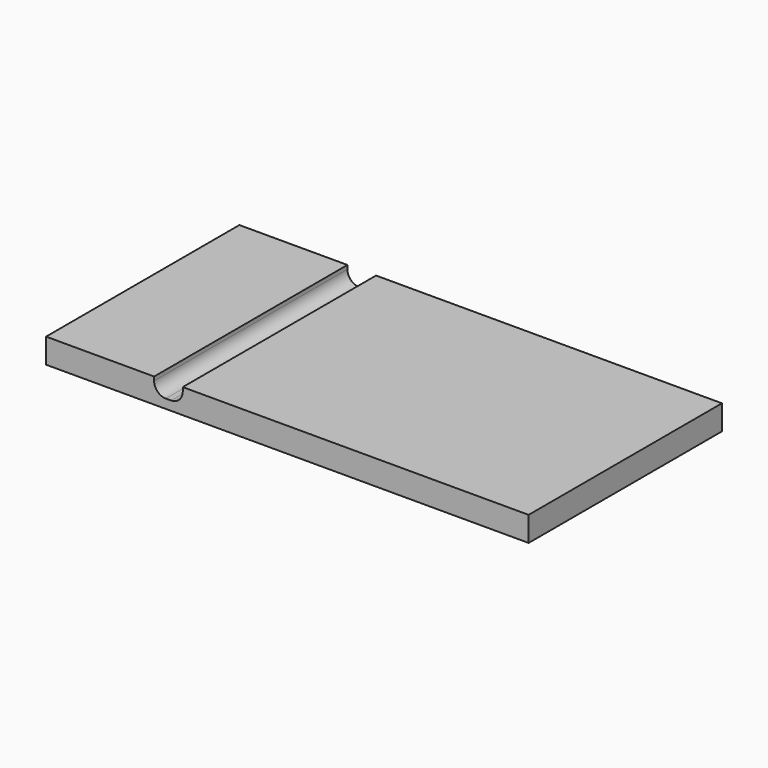
from build123d import *

# Parameters (mm, degrees)
F1_DEPTH = 62


with BuildPart() as f1:
    # F0 (on Front) → F1 (new body)
    with BuildSketch(Plane.XZ):
        with BuildLine():
            Line((-4.022226, 73.613832), (-31.75, 73.613832))
            Line((-31.75, 73.613832), (-31.75, 67.263832))
            Line((-31.75, 67.263832), (92.075, 67.263832))
            Line((92.075, 67.263832), (92.075, 73.613832))
            Line((92.075, 73.613832), (3.323974, 73.613832))
            Line((3.323974, 73.613832), (3.323974, 72.613832))
            ThreePointArc((3.323974, 72.613832), (2.445294, 70.492511), (0.323974, 69.613832))
            Line((0.323974, 69.613832), (-1.022226, 69.613832))
            ThreePointArc((-1.022226, 69.613832), (-3.143546, 70.492511), (-4.022226, 72.613832))
            Line((-4.022226, 72.613832), (-4.022226, 73.613832))
        make_face()
    extrude(amount=F1_DEPTH)


solid = f1.part
